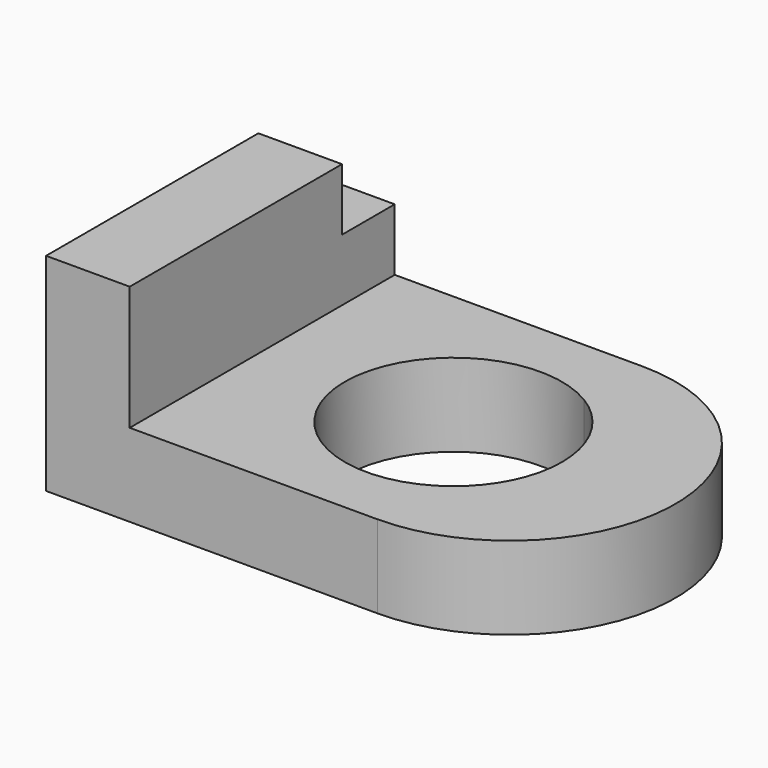
from build123d import *

# Parameters (mm, degrees)
F0_W     = 101.6
F0_H     = 101.6
F2_DEPTH = 25.4
F3_DEPTH = 54.864
F4_W     = 81.382974
F4_H     = 19.05
F5_DEPTH = 25.654


with BuildPart() as f2:
    # F0 (on Top) → F2 (new body)
    with BuildSketch(Plane.XY):
        Rectangle(F0_W, F0_H)
        with BuildLine():
            ThreePointArc((50.8, -50.8), (101.6, 0), (50.8, 50.8))
            Line((50.8, 50.8), (50.8, -50.8))
        make_face()
    extrude(amount=F2_DEPTH)

    # F1 (on face) → F3 (cut)
    with BuildSketch(Plane.XY):
        with BuildLine():
            ThreePointArc((50.8, -28.476143), (62.53461, -16.334626), (66.812163, 0))
            ThreePointArc((66.812163, 0), (62.53461, 16.334626), (50.8, 28.476143))
            Line((50.8, 28.476143), (50.8, -28.476143))
        make_face()
        with BuildLine():
            Line((50.8, -28.476143), (50.8, 28.476143))
            ThreePointArc((50.8, 28.476143), (0.157828, 0), (50.8, -28.476143))
        make_face()
    extrude(amount=F3_DEPTH, mode=Mode.SUBTRACT)

    # F4 (on face) → F5 (join)
    with BuildSketch(Plane(origin=(-50.8, 0, 0), x_dir=(0, -1, 0), z_dir=(-1, 0, 0))):
        with Locations((10.108513, 53.975)):
            Rectangle(F4_W, F4_H)
        Polygon((-30.582974, 44.45), (-50.8, 44.45), (-50.8, 25.4), (50.8, 25.4), (50.8, 44.45), align=None)
    extrude(amount=-F5_DEPTH)


solid = f2.part
